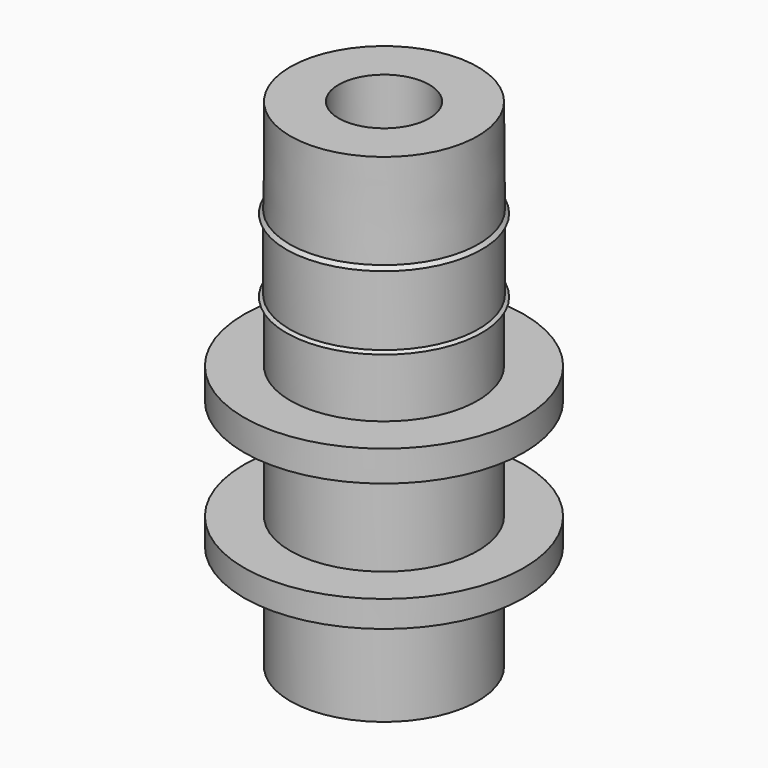
from build123d import *


with BuildPart() as f1:
    # F0 (on Front) → F1 (revolve)
    with BuildSketch(Plane.XZ):
        Polygon((-7.087499, 8), (-7.087499, 0), (-3.487499, 0), (-3.487499, 8), (0, 8), (0, 10), (-3.487499, 10), (-3.487499, 18), (0, 18), (0, 20), (-3.487499, 20), (-3.487499, 24.6), (-3.187499, 24.6), (-3.433158, 24.772198), (-3.433158, 30.150307), (-3.133158, 30.150307), (-3.433158, 30.428462), (-3.433158, 37.6), (-7.087499, 37.6), (-7.141841, 30.428462), (-7.387499, 30.150307), (-7.141841, 30.150307), (-7.141841, 24.772198), (-7.387499, 24.6), (-7.087499, 24.6), (-7.087499, 20), (-10.574999, 20), (-10.574999, 17.674999), (-7.087499, 17.674999), (-7.087499, 10), (-10.574999, 10), (-10.574999, 8), align=None)
    revolve(axis=Axis((0, 0, 19), (0, 0, 1)))


solid = f1.part
